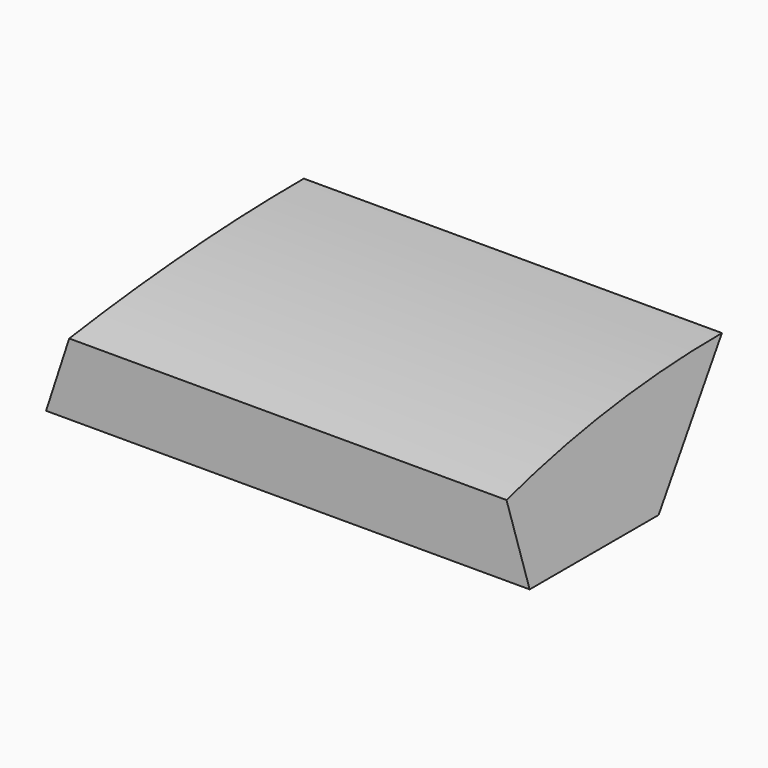
from build123d import *

# Parameters (mm, degrees)
F1_DEPTH = 609.6
F3_DEPTH = 709.1064125189


with BuildPart() as f1:
    # F0 (on Right) → F1 (new body)
    with BuildSketch(Plane.YZ):
        with BuildLine():
            Line((-406.4, 179.4700178945), (-406.4, 0))
            Line((-406.4, 0), (0, 0))
            Line((0, 0), (302.7054125189, 254))
            ThreePointArc((302.7054125189, 254), (-53.8002691666, 235.3163289211), (-406.4, 179.4700178945))
        make_face()
    extrude(amount=F1_DEPTH)

    # F2 (on face) → F3 (cut, through all)
    with BuildSketch(Plane.XZ.offset(406.4)):
        Polygon((551.2866563028, 179.4700178945), (609.6, 0), (609.6, 179.4700178945), align=None)
        Polygon((519.0783191877, 278.5970867934), (551.2866563028, 179.4700178945), (609.6, 179.4700178945), (609.6, 278.5970867934), align=None)
    extrude(amount=-F3_DEPTH, mode=Mode.SUBTRACT)

    # F4: F1 across plane


with BuildPart() as f1_1:
    add(f1.part)
    add(f1.part.mirror(Plane.YZ))


solid = f1_1.part
